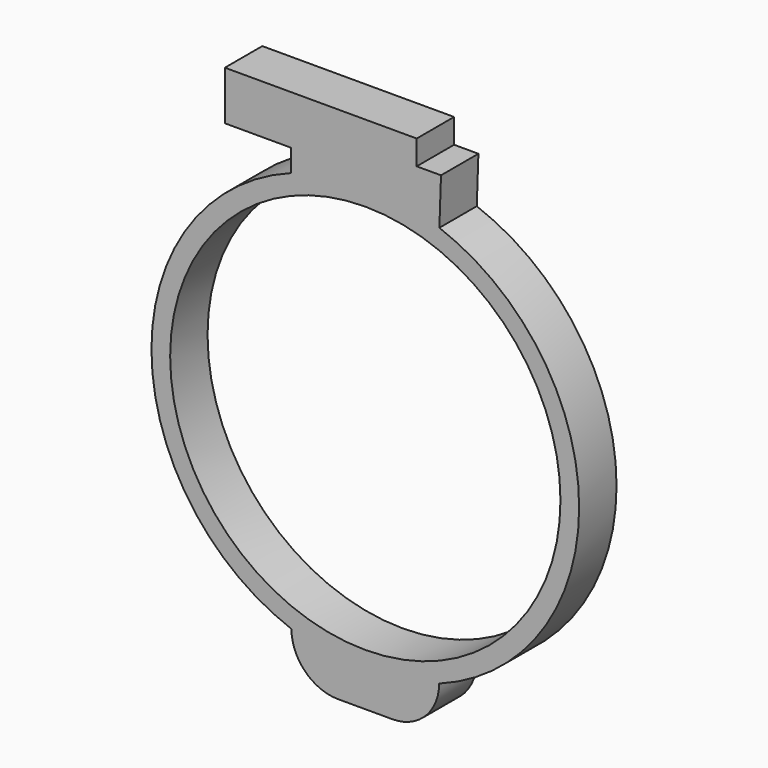
from build123d import *

# Parameters (mm, degrees)
F0_R     = 83.5
F1_DEPTH = 20


with BuildPart() as f1:
    # F0 (on Front) → F1 (new body)
    with BuildSketch(Plane.XZ):
        with BuildLine():
            ThreePointArc((-31.60529, -85.868246), (-25.730746, -99.97979), (-11.605346, -105.820939))
            Line((-11.605346, -105.820939), (11.605346, -105.820939))
            ThreePointArc((11.605346, -105.820939), (25.730746, -99.97979), (31.60529, -85.868246))
            ThreePointArc((31.60529, -85.868246), (91.499987, -0.048384), (31.696085, 85.834773))
            Line((31.696085, 85.834773), (32.388896, 105.820939))
            Line((32.388896, 105.820939), (21.988716, 105.820939))
            Line((21.988716, 105.820939), (21.988716, 116.298988))
            Line((21.988716, 116.298988), (-60.078114, 116.298988))
            Line((-60.078114, 116.298988), (-60.078114, 95.342889))
            Line((-60.078114, 95.342889), (-31.696085, 95.342889))
            Line((-31.696085, 95.342889), (-31.696085, 85.834773))
            ThreePointArc((-31.696085, 85.834773), (-91.499987, -0.048384), (-31.60529, -85.868246))
        make_face()
        Circle(F0_R, mode=Mode.SUBTRACT)
    extrude(amount=F1_DEPTH)


solid = f1.part
